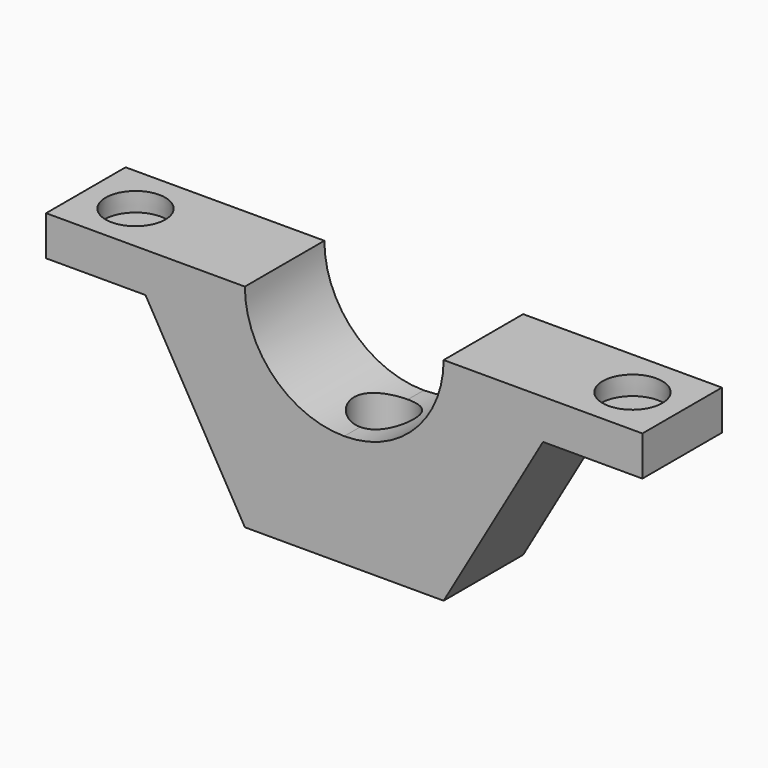
from build123d import *

# Parameters (mm, degrees)
F1_DEPTH = 2.5
F3_R     = 1.5
F4_DEPTH = 1
F4_TAPER = -5
F5_DEPTH = 25


with BuildPart() as f1:
    # F0 (on Front) → F1 (new body, symmetric)
    with BuildSketch(Plane.XZ):
        with BuildLine():
            ThreePointArc((0, -5), (-3.5355339059, -3.5355339059), (-5, 0))
            Line((-5, 0), (-15, 0))
            Line((-15, 0), (-15, -2))
            Line((-15, -2), (-10, -2))
            Line((-10, -2), (-5, -10.6602540378))
            Line((-5, -10.6602540378), (0, -10.6602540378))
            Line((0, -10.6602540378), (5, -10.6602540378))
            Line((5, -10.6602540378), (10, -2))
            Line((10, -2), (15, -2))
            Line((15, -2), (15, 0))
            Line((15, 0), (5, 0))
            ThreePointArc((5, 0), (3.5355339059, -3.5355339059), (0, -5))
        make_face()
    extrude(amount=F1_DEPTH, both=True)

    # F3 (on offset) → F4 (cut)
    with BuildSketch(Plane.XY):
        with Locations((-12.5, 0)):
            Circle(F3_R)
        with Locations((12.5, 0)):
            Circle(F3_R)
    extrude(amount=-F4_DEPTH, taper=F4_TAPER, mode=Mode.SUBTRACT)

    # F3 (on offset) → F5 (cut)
    with BuildSketch(Plane.XY):
        Circle(F3_R)
    extrude(amount=-F5_DEPTH, mode=Mode.SUBTRACT)


solid = f1.part
